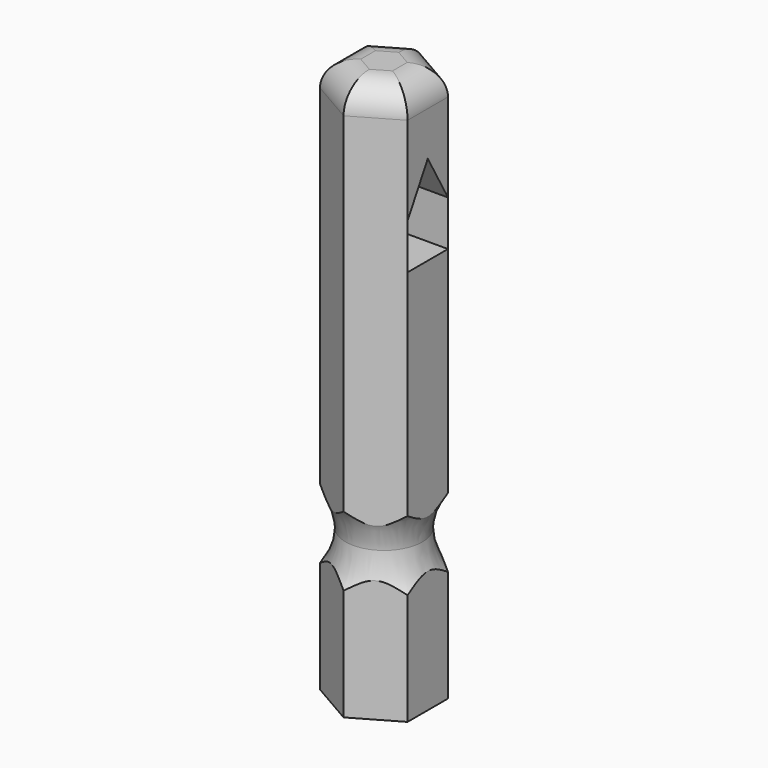
from build123d import *

# Parameters (mm, degrees)
F1_DEPTH = 40
F4_R     = 4
F6_R     = 2
F8_DEPTH = 6.281


with BuildPart() as f1:
    # F0 (on Top) → F1 (new body)
    with BuildSketch(Plane.XY):
        Polygon((0, 3.62576), (-3.14, 1.81288), (-3.14, -1.81288), (0, -3.62576), (3.14, -1.81288), (3.14, 1.81288), align=None)
    extrude(amount=F1_DEPTH)

    # F5: sweep along a path in F3
    with BuildLine(Plane.XY.offset(10.5)) as f5_path:
        CenterArc((0, 0), 6.75, 0, 360)
    # F4 (on Front) → F5 (sweep, cut)
    with BuildSketch(Plane.XZ):
        with Locations((-6.75, 10.5)):
            Circle(F4_R)
    sweep(path=f5_path.line, mode=Mode.SUBTRACT)

    # F6
    f6_edges = [f1.edges().sort_by_distance(p)[0] for p in [
        (1.57, -2.71932, 40),
        (-1.57, -2.71932, 40),
        (3.14, 0, 40),
        (-1.57, 2.71932, 40),
        (-3.14, 0, 40),
        (1.57, 2.71932, 40),
    ]]
    fillet(f6_edges, radius=F6_R)

    # F7 (on face) → F8 (cut, through all)
    with BuildSketch(Plane(origin=(-3.14, 0, 0), x_dir=(0, -1, 0), z_dir=(-1, 0, 0))):
        Polygon((1.81288, 31.650778), (0, 34.840249), (-1.81288, 31.650778), (-1.81288, 28.396215), (1.81288, 28.396215), align=None)
    extrude(amount=-F8_DEPTH, mode=Mode.SUBTRACT)


solid = f1.part
